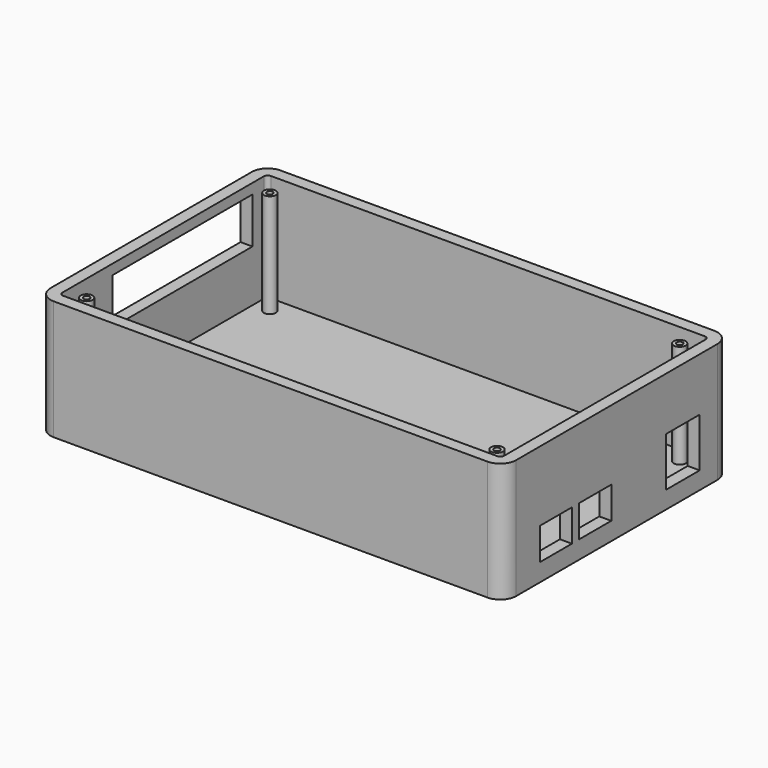
from build123d import *

# Parameters (mm, degrees)
SKETCH_W        = 116.73
SKETCH_H        = 71.06
PAD_DEPTH       = 30
THICKNESS_T     = -3
SKETCH001_W     = 10.600402
SKETCH001_H     = 12.306634
SKETCH001_W_2   = 9.956932
SKETCH001_H_2   = 8.02499
SKETCH001_W_3   = 10.164987
SKETCH001_H_3   = 7.995267
POCKET_DEPTH    = 5
SKETCH005_R     = 1.5
SKETCH005_R_2   = 0.75
PAD004_DEPTH    = 26
PAD005_DEPTH    = 26
PAD006_DEPTH    = 26
PAD007_DEPTH    = 26
SKETCH004_W     = 43.838747
SKETCH004_H     = 11.498687
POCKET001_DEPTH = 5
FILLET_R        = 4
FILLET002_R     = 4
FILLET003_R     = 4
FILLET004_R     = 1
FILLET005_R     = 1
FILLET006_R     = 1


with BuildPart() as part:
    # Sketch → Pad (new body)
    with BuildSketch(Plane.XY):
        with Locations((54.802781, 32.357444)):
            Rectangle(SKETCH_W, SKETCH_H)
    extrude(amount=PAD_DEPTH)

    # Thickness
    thickness_openings = [part.faces().sort_by_distance(p)[0] for p in [
        (54.802781, 32.357444, 30),
    ]]
    offset(amount=THICKNESS_T, openings=thickness_openings, kind=Kind.INTERSECTION)

    # Sketch001 (on Face3 of Thickness) → Pocket (cut)
    with BuildSketch(Plane.YZ.offset(113.167781)):
        with Locations((53.013897, 10.526186)):
            Rectangle(SKETCH001_W, SKETCH001_H)
        with Locations((13.300911, 8.478813)):
            Rectangle(SKETCH001_W_2, SKETCH001_H_2)
        with Locations((25.531591, 8.493675)):
            Rectangle(SKETCH001_W_3, SKETCH001_H_3)
    extrude(amount=-POCKET_DEPTH, mode=Mode.SUBTRACT)

    # Sketch005 (on Face23 of Pocket) → Pad004 (join)
    with BuildSketch(Plane.XY.offset(3)):
        with Locations((3.543065, 60.674728)):
            Circle(SKETCH005_R)
        with Locations((3.543065, 60.674728)):
            Circle(SKETCH005_R_2, mode=Mode.SUBTRACT)
        with Locations((106.043365, 60.956181)):
            Circle(SKETCH005_R)
        with Locations((106.043365, 60.956181)):
            Circle(SKETCH005_R_2, mode=Mode.SUBTRACT)
        with Locations((3.308966, 3.559068)):
            Circle(SKETCH005_R)
        with Locations((3.308966, 3.559068)):
            Circle(SKETCH005_R_2, mode=Mode.SUBTRACT)
        with Locations((106.180908, 3.540333)):
            Circle(SKETCH005_R)
        with Locations((106.180908, 3.540333)):
            Circle(SKETCH005_R_2, mode=Mode.SUBTRACT)
    extrude(amount=PAD004_DEPTH)

    # Sketch005 (on Face23 of Pocket) → Pad005 (join)
    with BuildSketch(Plane.XY.offset(3)):
        with Locations((3.543065, 60.674728)):
            Circle(SKETCH005_R)
        with Locations((3.543065, 60.674728)):
            Circle(SKETCH005_R_2, mode=Mode.SUBTRACT)
        with Locations((106.043365, 60.956181)):
            Circle(SKETCH005_R)
        with Locations((106.043365, 60.956181)):
            Circle(SKETCH005_R_2, mode=Mode.SUBTRACT)
        with Locations((3.308966, 3.559068)):
            Circle(SKETCH005_R)
        with Locations((3.308966, 3.559068)):
            Circle(SKETCH005_R_2, mode=Mode.SUBTRACT)
        with Locations((106.180908, 3.540333)):
            Circle(SKETCH005_R)
        with Locations((106.180908, 3.540333)):
            Circle(SKETCH005_R_2, mode=Mode.SUBTRACT)
    extrude(amount=PAD005_DEPTH)

    # Sketch005 (on Face23 of Pocket) → Pad006 (join)
    with BuildSketch(Plane.XY.offset(3)):
        with Locations((3.543065, 60.674728)):
            Circle(SKETCH005_R)
        with Locations((3.543065, 60.674728)):
            Circle(SKETCH005_R_2, mode=Mode.SUBTRACT)
        with Locations((106.043365, 60.956181)):
            Circle(SKETCH005_R)
        with Locations((106.043365, 60.956181)):
            Circle(SKETCH005_R_2, mode=Mode.SUBTRACT)
        with Locations((3.308966, 3.559068)):
            Circle(SKETCH005_R)
        with Locations((3.308966, 3.559068)):
            Circle(SKETCH005_R_2, mode=Mode.SUBTRACT)
        with Locations((106.180908, 3.540333)):
            Circle(SKETCH005_R)
        with Locations((106.180908, 3.540333)):
            Circle(SKETCH005_R_2, mode=Mode.SUBTRACT)
    extrude(amount=PAD006_DEPTH)

    # Sketch005 (on Face23 of Pocket) → Pad007 (join)
    with BuildSketch(Plane.XY.offset(3)):
        with Locations((3.543065, 60.674728)):
            Circle(SKETCH005_R)
        with Locations((3.543065, 60.674728)):
            Circle(SKETCH005_R_2, mode=Mode.SUBTRACT)
        with Locations((106.043365, 60.956181)):
            Circle(SKETCH005_R)
        with Locations((106.043365, 60.956181)):
            Circle(SKETCH005_R_2, mode=Mode.SUBTRACT)
        with Locations((3.308966, 3.559068)):
            Circle(SKETCH005_R)
        with Locations((3.308966, 3.559068)):
            Circle(SKETCH005_R_2, mode=Mode.SUBTRACT)
        with Locations((106.180908, 3.540333)):
            Circle(SKETCH005_R)
        with Locations((106.180908, 3.540333)):
            Circle(SKETCH005_R_2, mode=Mode.SUBTRACT)
    extrude(amount=PAD007_DEPTH)

    # Sketch004 → Pocket001 (cut)
    with BuildSketch(Plane(origin=(-3.562219, 0, 0), x_dir=(0, -1, 0), z_dir=(-1, 0, 0))):
        with Locations((-38.438376, 21.701757)):
            Rectangle(SKETCH004_W, SKETCH004_H)
    extrude(amount=-POCKET001_DEPTH, mode=Mode.SUBTRACT)

    # Fillet
    fillet_edges = [part.edges().sort_by_distance(p)[0] for p in [
        (-3.562219, -3.172556, 15),
    ]]
    fillet(fillet_edges, radius=FILLET_R)

    # Fillet002
    fillet002_edges = [part.edges().sort_by_distance(p)[0] for p in [
        (-3.562219, 67.887444, 15),
        (113.167781, 67.887444, 15),
    ]]
    fillet(fillet002_edges, radius=FILLET002_R)

    # Fillet003
    fillet003_edges = [part.edges().sort_by_distance(p)[0] for p in [
        (113.167781, -3.172556, 15),
    ]]
    fillet(fillet003_edges, radius=FILLET003_R)

    # Fillet004
    fillet004_edges = [part.edges().sort_by_distance(p)[0] for p in [
        (-0.562219, 64.887444, 16.5),
    ]]
    fillet(fillet004_edges, radius=FILLET004_R)

    # Fillet005
    fillet005_edges = [part.edges().sort_by_distance(p)[0] for p in [
        (110.167781, 64.887444, 16.5),
    ]]
    fillet(fillet005_edges, radius=FILLET005_R)

    # Fillet006
    fillet006_edges = [part.edges().sort_by_distance(p)[0] for p in [
        (110.167781, -0.172556, 16.5),
        (-0.562219, -0.172556, 16.5),
    ]]
    fillet(fillet006_edges, radius=FILLET006_R)


with BuildPart() as part_1:
    # Body placement: moved
    add(part.part.moved(Location((0, 0, -5))))


solid = part_1.part
